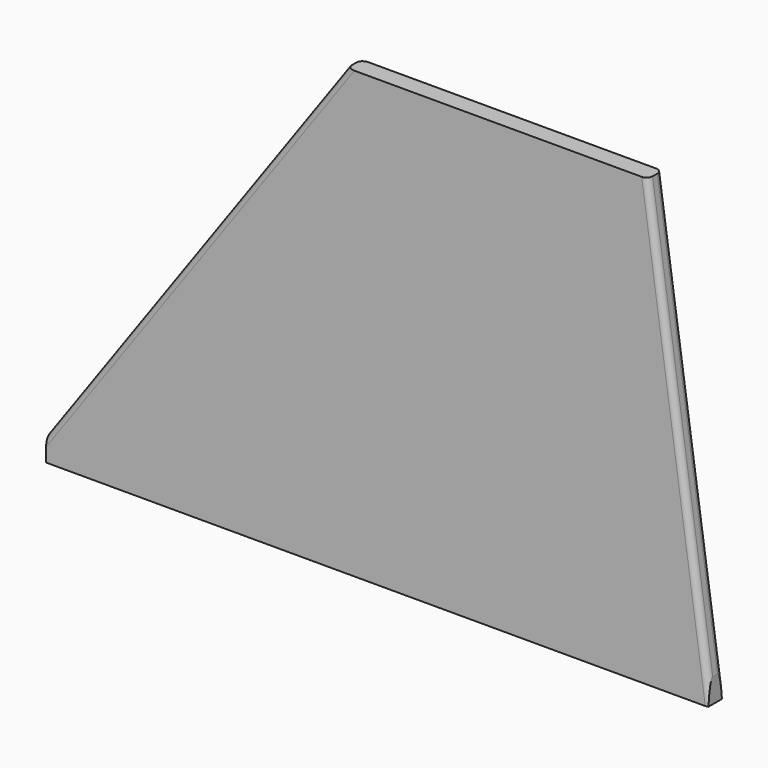
from build123d import *

# Parameters (mm, degrees)
F0_W     = 110
F0_H     = 4
F1_DEPTH = 3
F2_R     = 1


with BuildPart() as f1:
    # F0 (on Front) → F1 (new body)
    with BuildSketch(Plane.XZ):
        Polygon((0, 70.009968), (-50, 0.009968), (60, 0.009968), (50, 70.009968), align=None)
        with Locations((5, -1.990032)):
            Rectangle(F0_W, F0_H)
    extrude(amount=F1_DEPTH)

    # F2
    f2_edges = [f1.edges().sort_by_distance(p)[0] for p in [
        (-25, -3, 35.009968),
        (-25, 0, 35.009968),
        (55, -3, 35.009968),
        (55, 0, 35.009968),
    ]]
    fillet(f2_edges, radius=F2_R)


solid = f1.part
